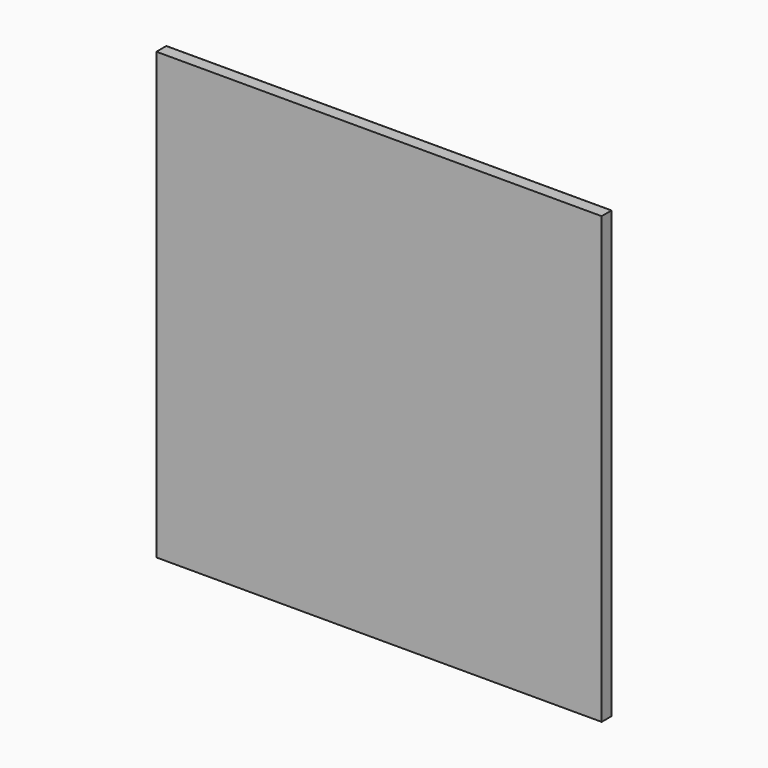
from build123d import *

# Parameters (mm, degrees)
F0_W     = 60.9826296568
F0_H     = 42.9404079914
F1_DEPTH = 18
F2_DEPTH = 596
F3_DEPTH = 596
F4_R     = 2


with BuildPart() as f1:
    # F0 (on Front) → F1 (new body)
    with BuildSketch(Plane.XZ):
        with Locations((-30.4913148284, 21.4702039957)):
            Rectangle(F0_W, F0_H)
    extrude(amount=-F1_DEPTH)

    # F2 (add): a face of the model
    f2_faces = [f1.faces().sort_by_distance(p)[0] for p in [
        (0, 9, 21.4702039957),
    ]]
    extrude(f2_faces, amount=-F2_DEPTH)

    # F3 (add): a face of the model
    f3_faces = [f1.faces().sort_by_distance(p)[0] for p in [
        (-298, 9, 0),
    ]]
    extrude(f3_faces, amount=-F3_DEPTH)

    # F4
    f4_edges = [f1.edges().sort_by_distance(p)[0] for p in [
        (0, 18, 298),
        (-298, 18, 596),
        (-596, 18, 298),
        (-298, 18, 0),
    ]]
    fillet(f4_edges, radius=F4_R)


solid = f1.part
